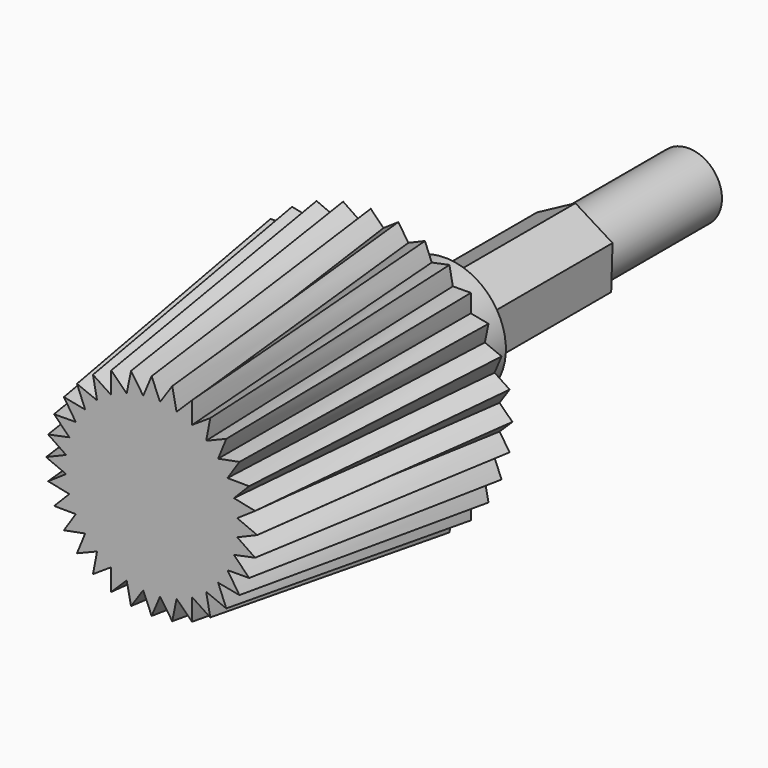
from build123d import *

# Parameters (mm, degrees)
F0_R      = 8.5
F1_DEPTH  = 18
F1_TAPER  = 9
F2_R      = 4
F3_DEPTH  = 6.1
F5_DEPTH  = 10.6
F6_R      = 2.2
F7_DEPTH  = 9.4
F11_COUNT = 32


with BuildPart() as f1:
    # F0 (on Front) → F1 (new body)
    with BuildSketch(Plane.XZ):
        Circle(F0_R)
    extrude(amount=F1_DEPTH, taper=F1_TAPER)

    # F2 (on face) → F3 (join)
    with BuildSketch(Plane(origin=(0, 0, 0), x_dir=(-1, 0, 0), z_dir=(0, 1, 0))):
        Circle(F2_R)
    extrude(amount=F3_DEPTH)

    # F4 (on face) → F5 (join)
    with BuildSketch(Plane(origin=(0, 6.1, 0), x_dir=(-1, 0, 0), z_dir=(0, 1, 0))):
        Polygon((-0.0899552099, 2.868589908), (-2.5292493383, 1.356391457), (-2.4392941284, -1.512198451), (0.0899552099, -2.868589908), (2.5292493383, -1.356391457), (2.4392941284, 1.512198451), align=None)
    extrude(amount=F5_DEPTH)

    # F6 (on face) → F7 (join)
    with BuildSketch(Plane(origin=(0, 16.7, 0), x_dir=(-1, 0, 0), z_dir=(0, 1, 0))):
        Circle(F6_R)
    extrude(amount=F7_DEPTH)



with BuildPart() as f10:
    # F9 (on face) → F10 section 0
    with BuildSketch(Plane.XZ.offset(18)):
        with BuildLine():
            Line((0.555, 5.6217506779), (0, 6.9361673668))
            Line((0, 6.9361673668), (-0.555, 5.6217506779))
            ThreePointArc((-0.555, 5.6217506779), (0, 5.6490800742), (0.555, 5.6217506779))
        make_face()
    # F8 (on Front) → F10 section 1
    with BuildSketch(Plane.XZ):
        Polygon((0.835, 8.4588873382), (0, 9.3067523038), (-0.835, 8.4588873382), align=None)
    loft()


with BuildPart() as f1_1:
    add(f1.part)

    add(f10.part)  # F11 merges F10
    # F11: F10 ×32 about axis
    f11_axis = Axis((0, -18, 0), (0, 1, 0))
    for i in range(1, F11_COUNT):
        add(f10.part.rotate(f11_axis, i * 360 / F11_COUNT))


solid = f1_1.part
